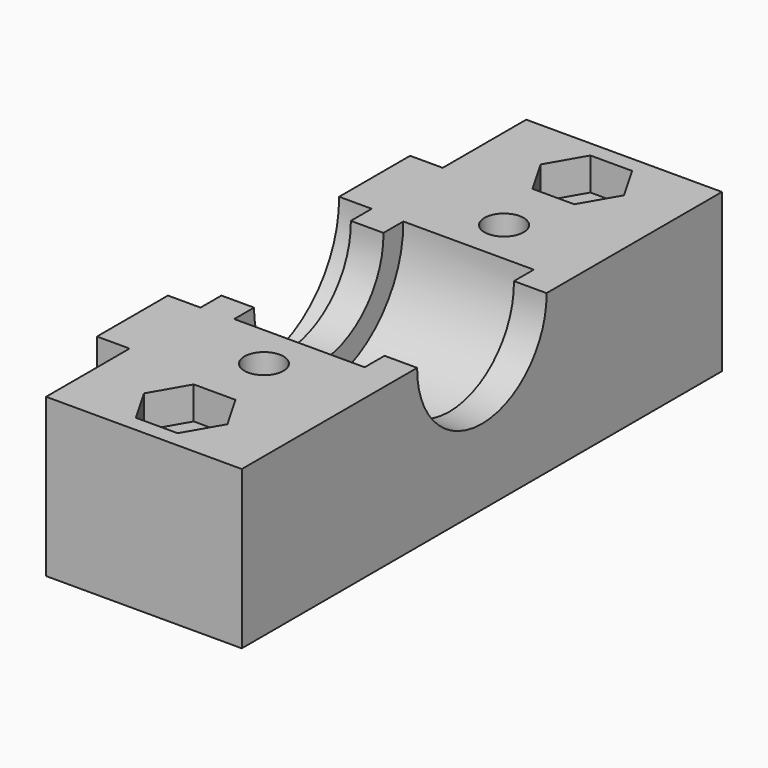
from build123d import *

# Parameters (mm, degrees)
SKETCH002_R     = 8.1
PAD001_DEPTH    = 5
SKETCH_W        = 15
SKETCH_H        = 30
PAD_DEPTH       = 12.1
SKETCH001_R     = 6.2
POCKET_DEPTH    = 15.001
SKETCH003_R     = 1.5
POCKET001_DEPTH = 12.101
POCKET002_DEPTH = 2.5
SKETCH005_W     = 30
SKETCH005_H     = 12.1
PAD002_DEPTH    = 2.5
SKETCH006_R     = 8.2
POCKET003_DEPTH = 2.5
SKETCH007_W     = 15
SKETCH007_H     = 12.1
PAD003_DEPTH    = 8
SKETCH008_W     = 15
SKETCH008_H     = 12.1
PAD004_DEPTH    = 8
SKETCH009_R     = 1.5
POCKET004_DEPTH = 12.101
POCKET005_DEPTH = 2.5


with BuildPart() as pad001:
    # Sketch002 → Pad001 (new body, symmetric)
    with BuildSketch(Plane.YZ):
        with Locations((0, 12)):
            Circle(SKETCH002_R)
    extrude(amount=PAD001_DEPTH, both=True)


with BuildPart() as pocket005:
    # Sketch → Pad (new body)
    with BuildSketch(Plane.XY):
        Rectangle(SKETCH_W, SKETCH_H)
    extrude(amount=PAD_DEPTH)

    # Sketch001 → Pocket (cut, through all)
    with BuildSketch(Plane.YZ.offset(7.5)):
        with Locations((0, 12)):
            Circle(SKETCH001_R)
    extrude(amount=-POCKET_DEPTH, mode=Mode.SUBTRACT)

    # Cut: cut Pad001
    add(pad001.part, mode=Mode.SUBTRACT)

    # Sketch003 → Pocket001 (cut, through all)
    with BuildSketch(Plane(origin=(0, 0, 0), x_dir=(1, 0, 0), z_dir=(0, 0, -1))):
        with Locations((0, 11.5)):
            Circle(SKETCH003_R)
        with Locations((0, -11.5)):
            Circle(SKETCH003_R)
    extrude(amount=-POCKET001_DEPTH, mode=Mode.SUBTRACT)

    # Sketch004 → Pocket002 (cut)
    with BuildSketch(Plane(origin=(0, 0, 0), x_dir=(1, 0, 0), z_dir=(0, 0, -1))):
        Polygon((3.2, 11.5), (1.6, 14.271281), (-1.6, 14.271281), (-3.2, 11.5), (-1.6, 8.728719), (1.6, 8.728719), align=None)
        Polygon((1.6, -14.271281), (3.2, -11.5), (1.6, -8.728719), (-1.6, -8.728719), (-3.2, -11.5), (-1.6, -14.271281), align=None)
    extrude(amount=-POCKET002_DEPTH, mode=Mode.SUBTRACT)

    # Sketch005 → Pad002 (new body)
    with BuildSketch(Plane(origin=(-7.5, 0, 0), x_dir=(0, -1, 0), z_dir=(-1, 0, 0))):
        with Locations((0, 6.05)):
            Rectangle(SKETCH005_W, SKETCH005_H)
    extrude(amount=PAD002_DEPTH)

    # Sketch006 → Pocket003 (cut)
    with BuildSketch(Plane(origin=(-10, 0, 0), x_dir=(0, -1, 0), z_dir=(-1, 0, 0))):
        with Locations((0, 12.016602)):
            Circle(SKETCH006_R)
    extrude(amount=-POCKET003_DEPTH, mode=Mode.SUBTRACT)

    # Sketch007 → Pad003 (new body)
    with BuildSketch(Plane.XZ.offset(15)):
        with Locations((0, 6.05)):
            Rectangle(SKETCH007_W, SKETCH007_H)
    extrude(amount=PAD003_DEPTH)

    # Sketch008 → Pad004 (new body)
    with BuildSketch(Plane(origin=(0, 15, 0), x_dir=(-1, 0, 0), z_dir=(0, 1, 0))):
        with Locations((0, 6.05)):
            Rectangle(SKETCH008_W, SKETCH008_H)
    extrude(amount=PAD004_DEPTH)

    # Sketch009 → Pocket004 (cut, through all)
    with BuildSketch(Plane.XY.offset(12.1)):
        with Locations((0, -19)):
            Circle(SKETCH009_R)
        with Locations((0, 19)):
            Circle(SKETCH009_R)
    extrude(amount=-POCKET004_DEPTH, mode=Mode.SUBTRACT)

    # Sketch010 → Pocket005 (cut)
    with BuildSketch(Plane.XY.offset(12.1)):
        Polygon((1.6, -21.771281), (3.2, -19), (1.6, -16.228719), (-1.6, -16.228719), (-3.2, -19), (-1.6, -21.771281), align=None)
        Polygon((1.6, 16.228719), (3.2, 19), (1.6, 21.771281), (-1.6, 21.771281), (-3.2, 19), (-1.6, 16.228719), align=None)
    extrude(amount=-POCKET005_DEPTH, mode=Mode.SUBTRACT)


solid = pocket005.part
